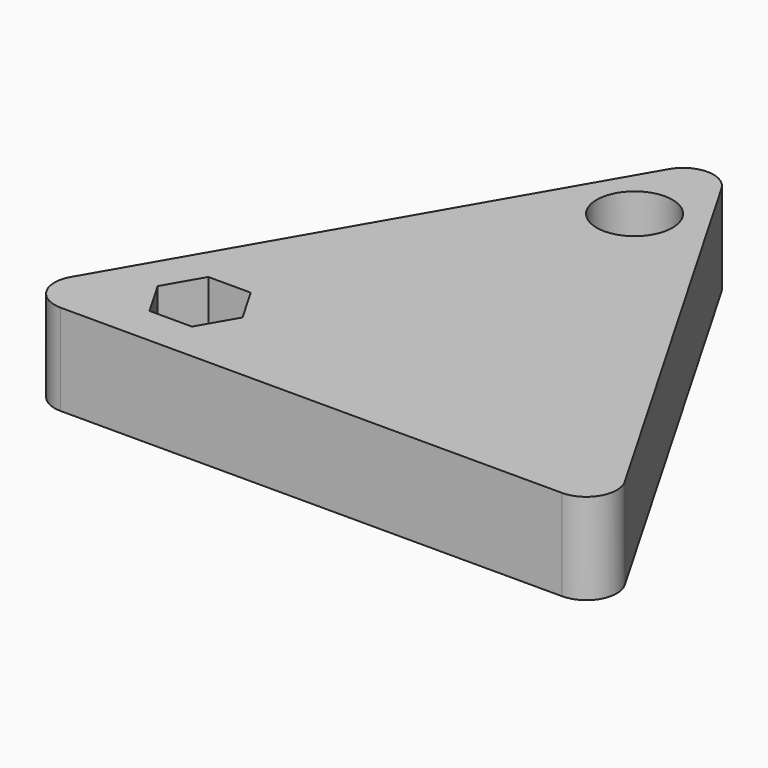
from build123d import *

# Parameters (mm, degrees)
F1_DEPTH = 15
F2_R     = 5


with BuildPart() as f1:
    # F0 (on Top) → F1 (new body)
    with BuildSketch(Plane.XY):
        Polygon((50, -46.6025403784), (0, 40), (-50, -46.6025403784), align=None)
        Polygon((-31.8494454538, -40.1648577189), (-33.599485728, -37.1336990487), (-35.3495260022, -34.1025403784), (-31.8494454538, -28.040223038), (-24.849284357, -28.040223038), (-21.3492038085, -34.1025403784), (-24.849284357, -40.1648577189), align=None, mode=Mode.SUBTRACT)
        with BuildLine():
            ThreePointArc((0, 13.75), (-4.4194173824, 24.4194173824), (6.25, 20))
            ThreePointArc((6.25, 20), (4.4194173824, 15.5805826176), (0, 13.75))
        make_face(mode=Mode.SUBTRACT)
    extrude(amount=F1_DEPTH)

    # F2
    f2_edges = [f1.edges().sort_by_distance(p)[0] for p in [
        (-50, -46.60254, 7.5),
        (50, -46.60254, 7.5),
        (0, 40, 7.5),
    ]]
    fillet(f2_edges, radius=F2_R)


solid = f1.part
